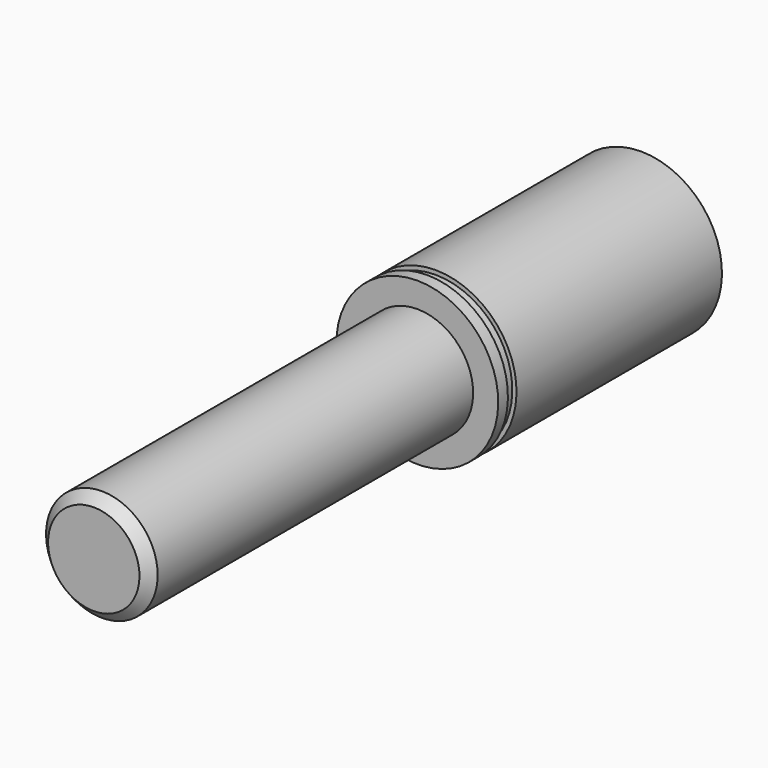
from build123d import *

# Parameters (mm, degrees)
F0_W     = 2.65
F0_H     = 18.9585
F2_SIZE2 = 1.5
F2_SIZE  = 1.5
F4_D     = 6.8
F4_DEPTH = 15.75
F4_TIP   = 2.0429261047
F5_SIZE2 = 2.5
F5_SIZE  = 2.5


with BuildPart() as f1:
    # F0 (on Right) → F1 (revolve)
    with BuildSketch(Plane.YZ):
        Polygon((-77.075, 13.8), (-77.075, 0), (25.925, 0), (25.925, 18.9585), (25.925, 20), (22.925, 20), (22.925, 13.8), align=None)
        with Locations((27.25, 9.47925)):
            Rectangle(F0_W, F0_H)
        Polygon((28.575, 18.9585), (28.575, 0), (77.075, 0), (77.075, 10), (92.075, 10), (92.075, 20), (28.575, 20), align=None)
    revolve(axis=Axis((0, 0, 0), (0, 1, 0)))

    # F2
    f2_edges = [f1.edges().sort_by_distance(p)[0] for p in [
        (0, 92.075, -10),
    ]]
    chamfer(f2_edges, length=F2_SIZE, length2=F2_SIZE2)

    # F4
    with Locations(Plane(origin=(0, 77.075, 0), x_dir=(-1, 0, 0), z_dir=(0, 1, 0))):
        with Locations((0, 0)):
            Hole(F4_D / 2, depth=F4_DEPTH)
            with Locations((0, 0, -(F4_DEPTH + F4_TIP / 2))):  # 118° drill point
                Cone(0, F4_D / 2, F4_TIP, mode=Mode.SUBTRACT)

    # F5
    f5_edges = [f1.edges().sort_by_distance(p)[0] for p in [
        (0, -77.075, -13.8),
    ]]
    chamfer(f5_edges, length=F5_SIZE, length2=F5_SIZE2)


solid = f1.part
